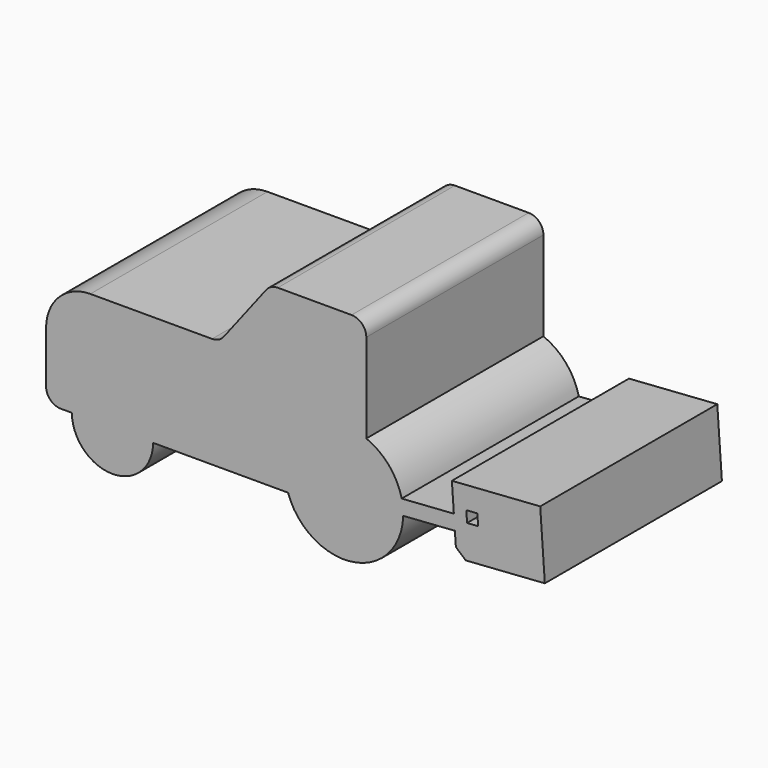
from build123d import *

# Parameters (mm, degrees)
F1_DEPTH = 762


with BuildPart() as f1:
    # F0 (on Front) → F1 (new body, symmetric)
    with BuildSketch(Plane.XZ):
        with BuildLine():
            ThreePointArc((406.2924873439, 397.0525550083), (406.3731209471, 401.7259683665), (406.4, 406.4))
            ThreePointArc((406.4, 406.4), (403.766999083, 452.5862582542), (395.9021139197, 498.1740496759))
            ThreePointArc((395.9021139197, 498.1740496759), (308.9670064008, 670.40823653), (152.4, 783.1428831445))
            Line((152.4, 783.1428831445), (152.4, 381))
            ThreePointArc((152.4, 381), (122.6420489686, 309.1579510314), (50.8, 279.4))
            Line((50.8, 279.4), (-386.0465775007, 279.4))
            ThreePointArc((-386.0465775007, 279.4), (59.69091339, 4.4075189028), (406.2924873439, 397.0525550083))
        make_face()
        with BuildLine():
            ThreePointArc((395.9021139197, 498.1740496759), (403.766999083, 452.5862582542), (406.4, 406.4))
            ThreePointArc((406.4, 406.4), (406.3731209471, 401.7259683665), (406.2924873439, 397.0525550083))
            Line((406.2924873439, 397.0525550083), (762.2128270991, 421.9448621212))
            Line((762.2128270991, 421.9448621212), (755.1244550061, 523.2972916977))
            Line((755.1244550061, 523.2972916977), (395.9021139197, 498.1740496759))
        make_face()
        with BuildLine():
            Line((152.4, 381), (152.4, 783.1428831445))
            ThreePointArc((152.4, 783.1428831445), (-277.6452842641, 703.1727348088), (-386.0465775007, 279.4))
            Line((-386.0465775007, 279.4), (50.8, 279.4))
            ThreePointArc((50.8, 279.4), (122.6420489686, 309.1579510314), (152.4, 381))
        make_face()
        with BuildLine():
            ThreePointArc((-386.0465775007, 279.4), (-277.6452842641, 703.1727348088), (152.4, 783.1428831445))
            Line((152.4, 783.1428831445), (152.4, 1397))
            ThreePointArc((152.4, 1397), (122.6420489686, 1468.8420489686), (50.8, 1498.6))
            Line((50.8, 1498.6), (-457.2, 1498.6))
            ThreePointArc((-457.2, 1498.6), (-502.0513814218, 1488.1642121918), (-537.6889931699, 1459.0006611134))
            Line((-537.6889931699, 1459.0006611134), (-828.8633631898, 1080.9993388866))
            ThreePointArc((-828.8633631898, 1080.9993388866), (-864.500974938, 1051.8357878082), (-909.3523563597, 1041.4))
            Line((-909.3523563597, 1041.4), (-1747.5523563597, 1041.4))
            ThreePointArc((-1747.5523563597, 1041.4), (-1963.0785032654, 952.1261469057), (-2052.3523563597, 736.6))
            Line((-2052.3523563597, 736.6), (-2052.3523563597, 381))
            ThreePointArc((-2052.3523563597, 381), (-2022.5944053283, 309.1579510314), (-1950.7523563597, 279.4))
            Line((-1950.7523563597, 279.4), (-1874.5523563597, 279.4))
            ThreePointArc((-1874.5523563597, 279.4), (-1595.1523563597, 558.8), (-1315.7523563597, 279.4))
            Line((-1315.7523563597, 279.4), (-386.0465775007, 279.4))
        make_face()
        with BuildLine():
            Line((741.4824871963, 718.3557005364), (755.1244550061, 523.2972916977))
            Line((755.1244550061, 523.2972916977), (762.2128270991, 421.9448621212))
            Line((762.2128270991, 421.9448621212), (768.7664228158, 328.2388828591))
            ThreePointArc((768.7664228158, 328.2388828591), (769.418147621, 325.8484875196), (770.9350275225, 323.8894544763))
            Line((770.9350275225, 323.8894544763), (836.7254301003, 266.7))
            Line((836.7254301003, 266.7), (1381.4947390743, 304.8))
            Line((1381.4947390743, 304.8), (1349.5970646557, 760.8859330945))
            Line((1349.5970646557, 760.8859330945), (741.4824871963, 718.3557005364))
        make_face()
        Polygon((846.1147002851, 496.5150595705), (840.7984212154, 572.5293817529), (916.8127433978, 577.8456608227), (922.1290224676, 501.8313386403), align=None, mode=Mode.SUBTRACT)
        with BuildLine():
            Line((-1874.5523563597, 279.4), (-1315.7523563597, 279.4))
            ThreePointArc((-1315.7523563597, 279.4), (-1595.1523563597, 558.8), (-1874.5523563597, 279.4))
        make_face()
        with BuildLine():
            ThreePointArc((-1874.5523563597, 279.4), (-1595.1523563597, 0), (-1315.7523563597, 279.4))
            Line((-1315.7523563597, 279.4), (-1874.5523563597, 279.4))
        make_face()
    extrude(amount=F1_DEPTH, both=True)


solid = f1.part
